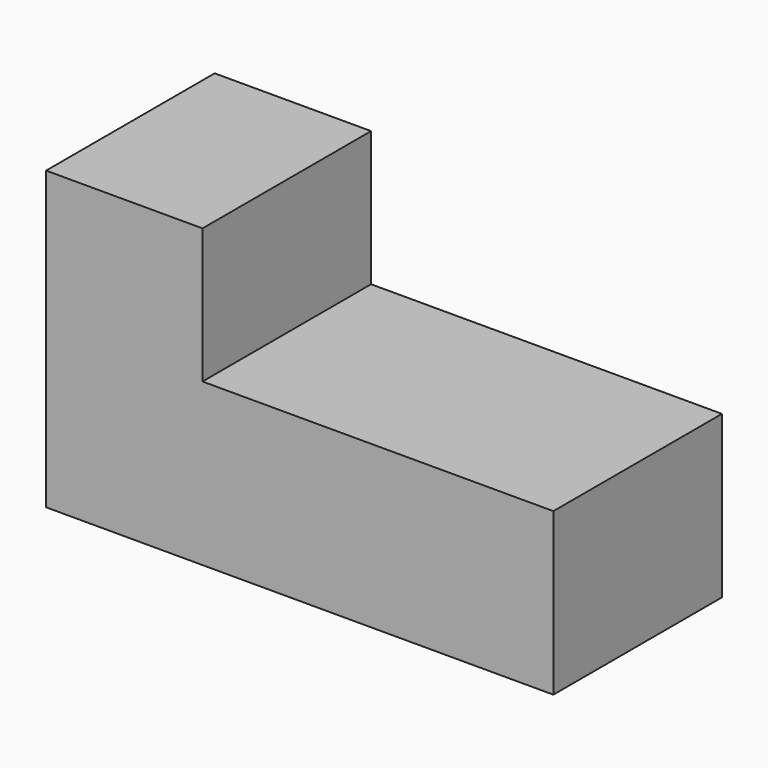
from build123d import *

# Parameters (mm, degrees)
F1_DEPTH      = 25.4
F1_DEPTH_BACK = 36.5252


with BuildPart() as f1:
    # F0 (on Front) → F1 (new body, two sides)
    with BuildSketch(Plane.XZ) as f1_sk:
        Polygon((-15.649692, 39.624), (-61.623692, 39.624), (-61.623692, -47.498), (87.474308, -47.498), (87.474308, 0), (-15.649692, 0), align=None)
    extrude(amount=F1_DEPTH)
    extrude(f1_sk.sketch, amount=-F1_DEPTH_BACK)


solid = f1.part
